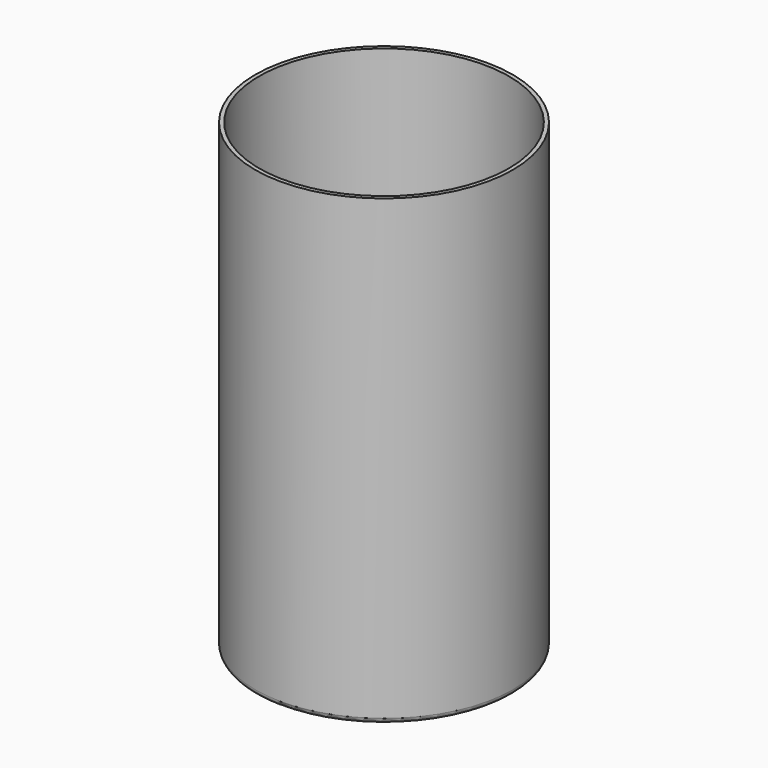
from build123d import *

# Parameters (mm, degrees)
F0_R     = 245
F1_DEPTH = 880
F2_R     = 10
F3_T     = -7.62


with BuildPart() as f1:
    # F0 (on Top) → F1 (new body)
    with BuildSketch(Plane.XY):
        Circle(F0_R)
    extrude(amount=-F1_DEPTH)

    # F2
    f2_edges = [f1.edges().sort_by_distance(p)[0] for p in [
        (-245, 0, -880),
    ]]
    fillet(f2_edges, radius=F2_R)

    # F3
    f3_openings = [f1.faces().sort_by_distance(p)[0] for p in [
        (0, 0, 0),
    ]]
    offset(amount=F3_T, openings=f3_openings)


solid = f1.part
